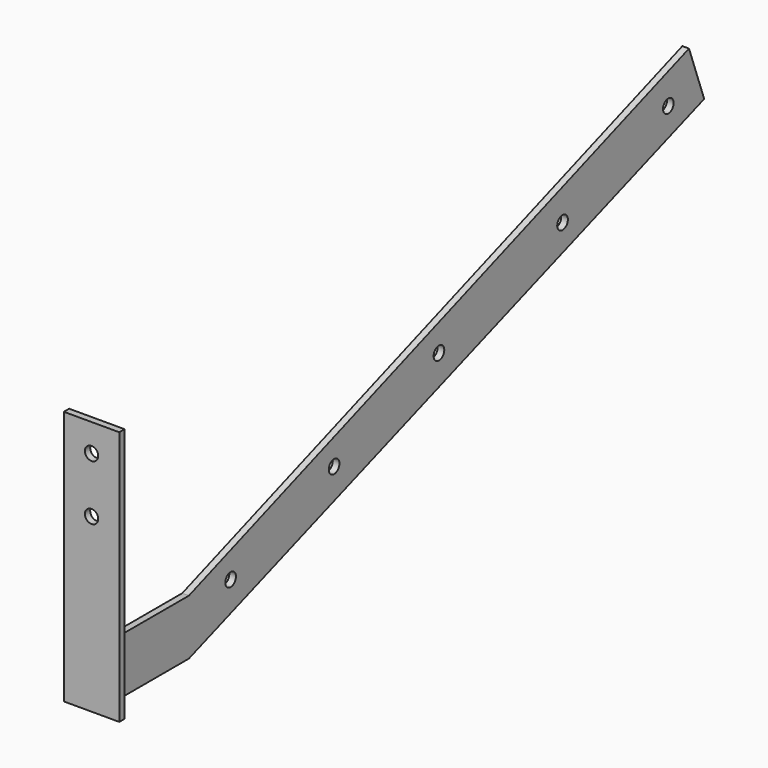
from build123d import *

# Parameters (mm, degrees)
F0_R     = 6
F1_DEPTH = 6
F2_R     = 6
F3_DEPTH = 6


with BuildPart() as f1:
    # F0 (on Right) → F1 (new body)
    with BuildSketch(Plane.YZ):
        Polygon((106, 50), (6, 50), (6, 0), (106, 0), (686.91658, 208.227455), (669.815572, 255.212086), align=None)
        with Locations((153.04561, 43.631438)):
            Circle(F0_R, mode=Mode.SUBTRACT)
        with Locations((269.712269, 85.977115)):
            Circle(F0_R, mode=Mode.SUBTRACT)
        with Locations((387.907786, 128.054217)):
            Circle(F0_R, mode=Mode.SUBTRACT)
        with Locations((527.243137, 174.989462)):
            Circle(F0_R, mode=Mode.SUBTRACT)
        with Locations((646.502435, 219.063535)):
            Circle(F0_R, mode=Mode.SUBTRACT)
    extrude(amount=F1_DEPTH)

    # F2 (on face) → F3 (join)
    with BuildSketch(Plane.XZ.offset(-6)):
        Polygon((-22, 0), (6, 0), (28, 0), (28, 230), (-22, 230), align=None)
        with Locations((3, 155)):
            Circle(F2_R, mode=Mode.SUBTRACT)
        with Locations((3, 205)):
            Circle(F2_R, mode=Mode.SUBTRACT)
    extrude(amount=F3_DEPTH)


solid = f1.part
